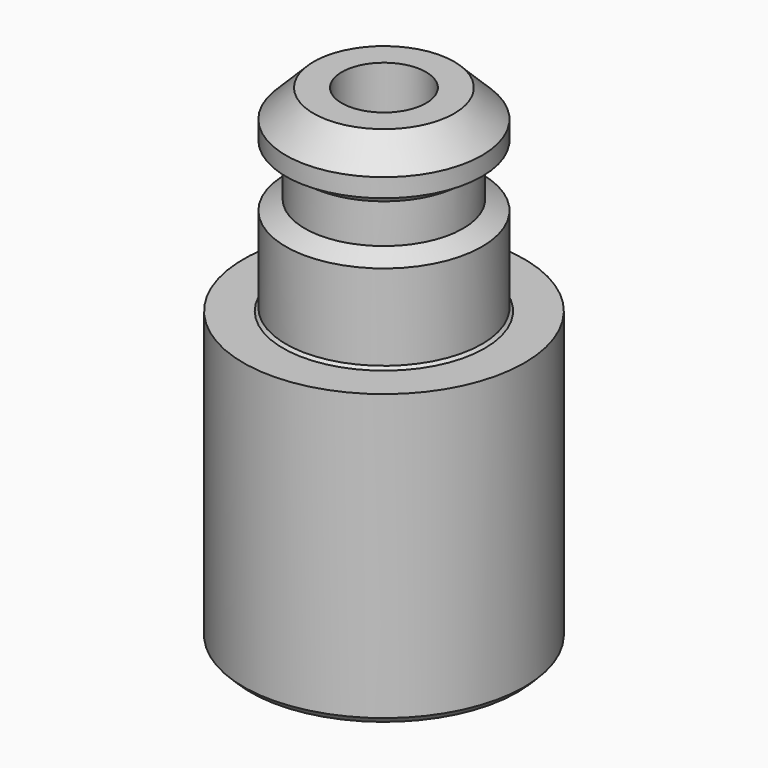
from build123d import *

# Parameters (mm, degrees)
CHAMFER_SIZE    = 0.25
CHAMFER001_SIZE = 0.1
CHAMFER002_SIZE = 0.1


with BuildPart() as part:
    # Sketch003 → Revolution003 (revolve)
    with BuildSketch(Plane.XZ):
        Polygon((2.5, 31), (3.49, 30.01), (3.49, 29.35), (2.815, 29), (2.815, 27.5), (3.49, 27.15), (3.49, 24), (5, 24), (5, 13.6), (1.25, 13.6), (1.25, 27.849785), (1.5, 28), (1.5, 31), align=None)
    revolve(axis=Axis((0, 0, 0), (0, 0, 1)))

    # Chamfer
    chamfer_edges = [part.edges().sort_by_distance(p)[0] for p in [
        (-5, 0, 13.6),
    ]]
    chamfer(chamfer_edges, length=CHAMFER_SIZE)

    # Chamfer001
    chamfer001_edges = [part.edges().sort_by_distance(p)[0] for p in [
        (-2.815, 0, 29),
    ]]
    chamfer(chamfer001_edges, length=CHAMFER001_SIZE)

    # Chamfer002
    chamfer002_edges = [part.edges().sort_by_distance(p)[0] for p in [
        (-3.49, 0, 24),
    ]]
    chamfer(chamfer002_edges, length=CHAMFER002_SIZE)


solid = part.part
